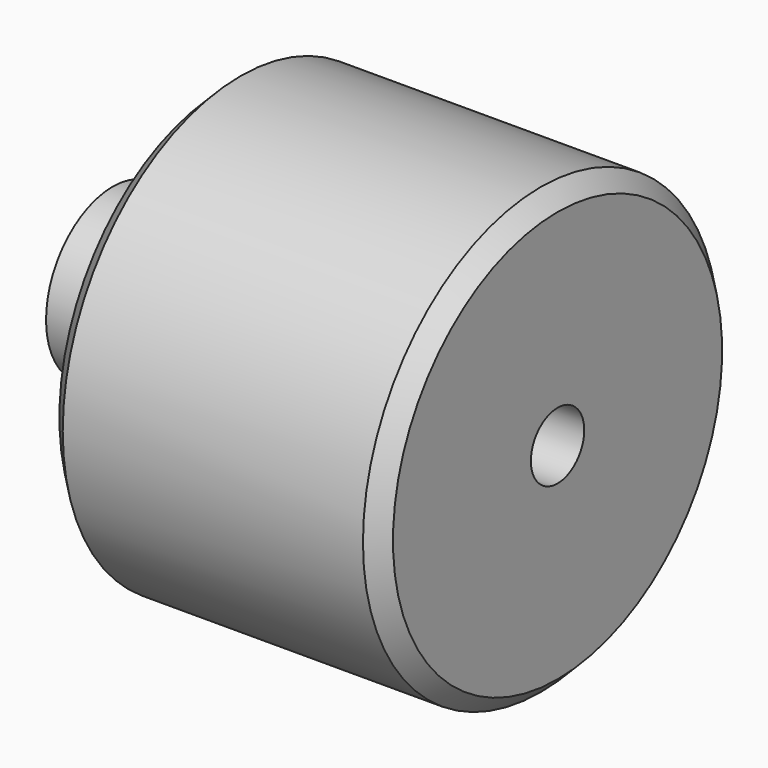
from build123d import *

# Parameters (mm, degrees)
F2_SIZE2 = 15
F2_SIZE  = 15
F5_D     = 30
F5_DEPTH = 75


with BuildPart() as f1:
    # F0 (on Front) → F1 (revolve)
    with BuildSketch(Plane.XZ):
        Polygon((-200, 30), (200, 30), (200, 200), (-100, 200), (-100, 75), (-200, 75), align=None)
    revolve(axis=Axis((14.209643, 0, 0), (1, 0, 0)))

    # F2
    f2_edges = [f1.edges().sort_by_distance(p)[0] for p in [
        (-100, 0, -200),
        (200, 0, -200),
    ]]
    chamfer(f2_edges, length=F2_SIZE, length2=F2_SIZE2)

    # F5
    with Locations(Plane.XY.offset(75)):
        with Locations((-150, 0)):
            Hole(F5_D / 2, depth=F5_DEPTH)


solid = f1.part
